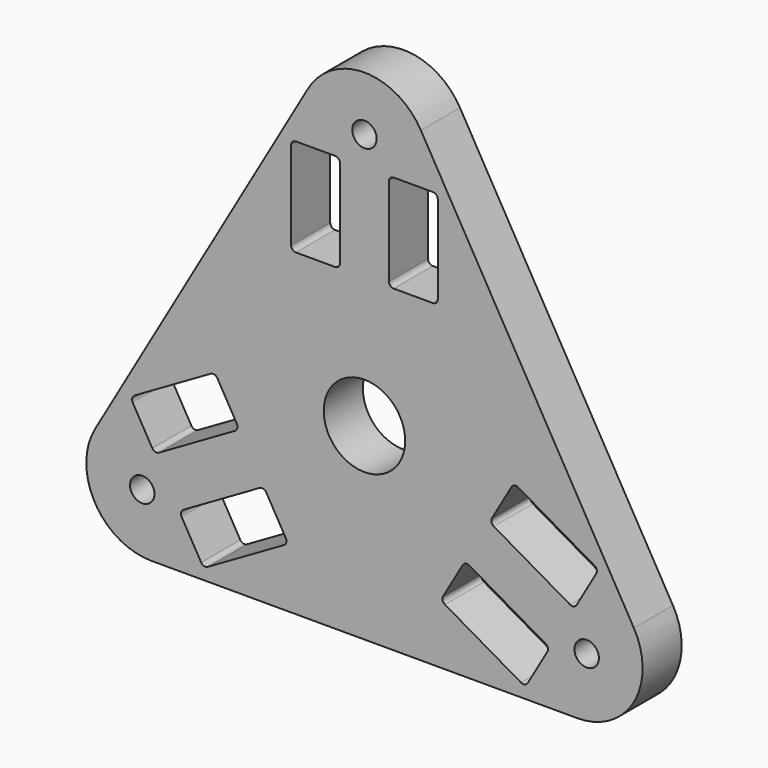
from build123d import *

# Parameters (mm, degrees)
F0_R     = 2.5
F1_DEPTH = 3
F2_R     = 0.75
F3_DEPTH = 25


with BuildPart() as f1:
    # F0 (on Front) → F1 (new body)
    with BuildSketch(Plane.XZ):
        with BuildLine():
            Line((16.535898, -5.547005), (3.464102, 17.094011))
            ThreePointArc((3.464102, 17.094011), (0, 19.094011), (-3.464102, 17.094011))
            Line((-3.464102, 17.094011), (-16.535898, -5.547005))
            ThreePointArc((-16.535898, -5.547005), (-16.535898, -9.547005), (-13.071797, -11.547005))
            Line((-13.071797, -11.547005), (13.071797, -11.547005))
            ThreePointArc((13.071797, -11.547005), (16.535898, -9.547005), (16.535898, -5.547005))
        make_face()
        with BuildLine():
            Line((-11.114548, -8.149038), (-6.438011, -5.449038))
            ThreePointArc((-6.438011, -5.449038), (-6.210365, -5.419068), (-6.028203, -5.558846))
            Line((-6.028203, -5.558846), (-4.828203, -7.637307))
            ThreePointArc((-4.828203, -7.637307), (-4.798233, -7.864952), (-4.938011, -8.047114))
            Line((-4.938011, -8.047114), (-9.614548, -10.747114))
            ThreePointArc((-9.614548, -10.747114), (-9.842194, -10.777084), (-10.024356, -10.637307))
            Line((-10.024356, -10.637307), (-11.224356, -8.558846))
            ThreePointArc((-11.224356, -8.558846), (-11.254326, -8.3312), (-11.114548, -8.149038))
        make_face(mode=Mode.SUBTRACT)
        with BuildLine():
            ThreePointArc((-9.438011, -0.252886), (-9.210365, -0.222916), (-9.028203, -0.362693))
            Line((-9.028203, -0.362693), (-7.828203, -2.441154))
            ThreePointArc((-7.828203, -2.441154), (-7.798233, -2.6688), (-7.938011, -2.850962))
            Line((-7.938011, -2.850962), (-12.614548, -5.550962))
            ThreePointArc((-12.614548, -5.550962), (-12.842194, -5.580932), (-13.024356, -5.441154))
            Line((-13.024356, -5.441154), (-14.224356, -3.362693))
            ThreePointArc((-14.224356, -3.362693), (-14.254326, -3.135048), (-14.114548, -2.952886))
            Line((-14.114548, -2.952886), (-9.438011, -0.252886))
        make_face(mode=Mode.SUBTRACT)
        with BuildLine():
            ThreePointArc((4.938011, -8.047114), (4.798233, -7.864952), (4.828203, -7.637307))
            Line((4.828203, -7.637307), (6.028203, -5.558846))
            ThreePointArc((6.028203, -5.558846), (6.210365, -5.419068), (6.438011, -5.449038))
            Line((6.438011, -5.449038), (11.114548, -8.149038))
            ThreePointArc((11.114548, -8.149038), (11.254326, -8.3312), (11.224356, -8.558846))
            Line((11.224356, -8.558846), (10.024356, -10.637307))
            ThreePointArc((10.024356, -10.637307), (9.842194, -10.777084), (9.614548, -10.747114))
            Line((9.614548, -10.747114), (4.938011, -8.047114))
        make_face(mode=Mode.SUBTRACT)
        Circle(F0_R, mode=Mode.SUBTRACT)
        with BuildLine():
            Line((12.614548, -5.550962), (7.938011, -2.850962))
            ThreePointArc((7.938011, -2.850962), (7.798233, -2.6688), (7.828203, -2.441154))
            Line((7.828203, -2.441154), (9.028203, -0.362693))
            ThreePointArc((9.028203, -0.362693), (9.210365, -0.222916), (9.438011, -0.252886))
            Line((9.438011, -0.252886), (14.114548, -2.952886))
            ThreePointArc((14.114548, -2.952886), (14.254326, -3.135048), (14.224356, -3.362693))
            Line((14.224356, -3.362693), (13.024356, -5.441154))
            ThreePointArc((13.024356, -5.441154), (12.842194, -5.580932), (12.614548, -5.550962))
        make_face(mode=Mode.SUBTRACT)
        with BuildLine():
            ThreePointArc((-1.5, 8.3), (-1.587868, 8.087868), (-1.8, 8))
            Line((-1.8, 8), (-4.2, 8))
            ThreePointArc((-4.2, 8), (-4.412132, 8.087868), (-4.5, 8.3))
            Line((-4.5, 8.3), (-4.5, 13.7))
            ThreePointArc((-4.5, 13.7), (-4.412132, 13.912132), (-4.2, 14))
            Line((-4.2, 14), (-1.8, 14))
            ThreePointArc((-1.8, 14), (-1.587868, 13.912132), (-1.5, 13.7))
            Line((-1.5, 13.7), (-1.5, 8.3))
        make_face(mode=Mode.SUBTRACT)
        with BuildLine():
            ThreePointArc((4.5, 8.3), (4.412132, 8.087868), (4.2, 8))
            Line((4.2, 8), (1.8, 8))
            ThreePointArc((1.8, 8), (1.587868, 8.087868), (1.5, 8.3))
            Line((1.5, 8.3), (1.5, 13.7))
            ThreePointArc((1.5, 13.7), (1.587868, 13.912132), (1.8, 14))
            Line((1.8, 14), (4.2, 14))
            ThreePointArc((4.2, 14), (4.412132, 13.912132), (4.5, 13.7))
            Line((4.5, 13.7), (4.5, 8.3))
        make_face(mode=Mode.SUBTRACT)
    extrude(amount=F1_DEPTH)

    # F2 (on face) → F3 (cut)
    with BuildSketch(Plane(origin=(0, 0, 0), x_dir=(-1, 0, 0), z_dir=(0, 1, 0))):
        with Locations((0, 15.75)):
            Circle(F2_R)
        with Locations((-13.6399, -7.875)):
            Circle(F2_R)
        with Locations((13.6399, -7.875)):
            Circle(F2_R)
    extrude(amount=-F3_DEPTH, mode=Mode.SUBTRACT)


solid = f1.part
